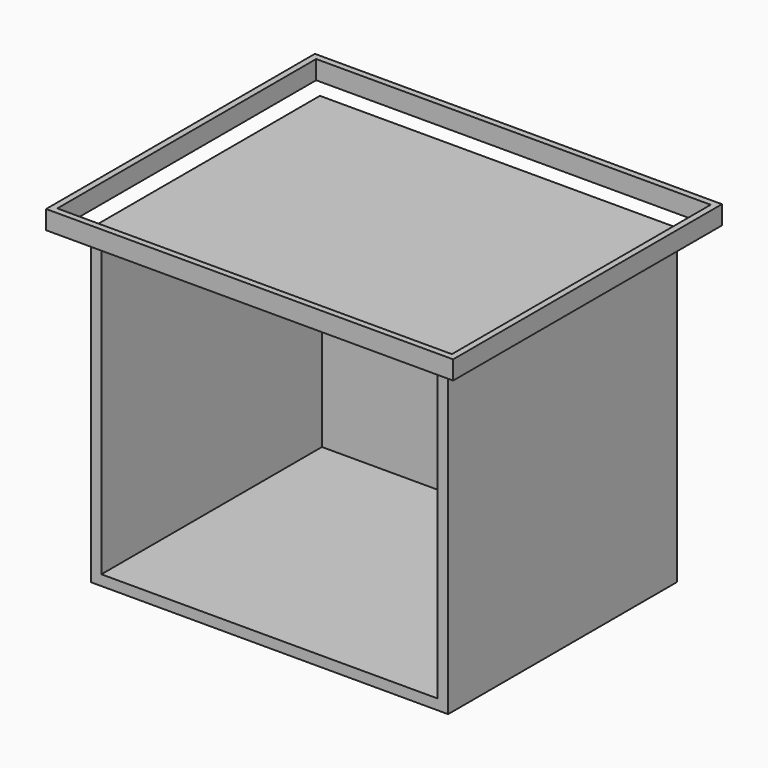
from build123d import *

# Parameters (mm, degrees)
F0_W     = 87.239668
F0_H     = 69.890052
F1_DEPTH = 76.2
F2_T     = -2.54
F3_W     = 99.431672
F3_H     = 82.082056
F3_W_2   = 96.383668
F3_H_2   = 79.034052
F4_DEPTH = 4.572


with BuildPart() as f1:
    # F0 (on Top) → F1 (new body)
    with BuildSketch(Plane.XY):
        Rectangle(F0_W, F0_H)
    extrude(amount=F1_DEPTH)

    # F2
    f2_openings = [f1.faces().sort_by_distance(p)[0] for p in [
        (0, -34.945026, 38.1),
    ]]
    offset(amount=F2_T, openings=f2_openings)


with BuildPart() as f4:
    # F3 (on face) → F4 (new body)
    with BuildSketch(Plane.XY.offset(76.2)):
        Rectangle(F3_W, F3_H)
        Rectangle(F3_W_2, F3_H_2, mode=Mode.SUBTRACT)
    extrude(amount=F4_DEPTH)


solid = Compound([f1.part, f4.part])
